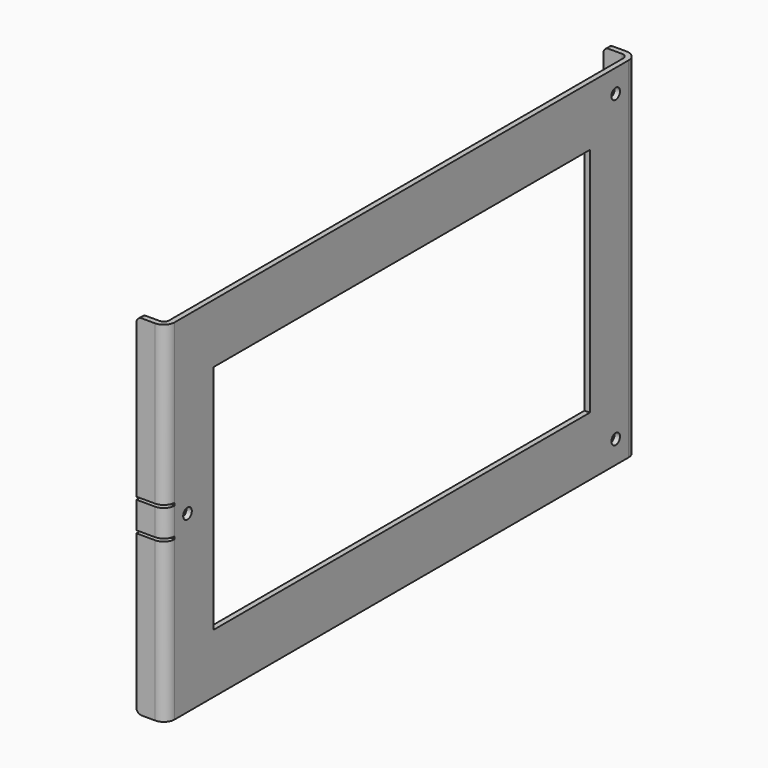
from build123d import *

# Parameters (mm, degrees)
PAD_DEPTH       = 130
FILLET_R        = 2
FILLET001_R     = 4
SKETCH001_R     = 2
SKETCH001_W     = 175
SKETCH001_H     = 86
POCKET_DEPTH    = 5
FILLET002_R     = 2
SKETCH002_W     = 15
SKETCH002_H     = 1
POCKET001_DEPTH = 4


with BuildPart() as part:
    # Sketch → Pad (new body)
    with BuildSketch(Plane.XY):
        Polygon((0, 109.5), (-11, 109.5), (-11, 107.5), (-2, 107.5), (-2, -107.5), (-11, -107.5), (-11, -109.5), (0, -109.5), align=None)
    extrude(amount=PAD_DEPTH)

    # Fillet
    fillet_edges = [part.edges().sort_by_distance(p)[0] for p in [
        (-2, -107.5, 65),
        (-2, 107.5, 65),
    ]]
    fillet(fillet_edges, radius=FILLET_R)

    # Fillet001
    fillet001_edges = [part.edges().sort_by_distance(p)[0] for p in [
        (0, 109.5, 65),
        (0, -109.5, 65),
    ]]
    fillet(fillet001_edges, radius=FILLET001_R)

    # Sketch001 → Pocket (cut)
    with BuildSketch(Plane.YZ):
        with Locations((99.5, 8.5)):
            Circle(SKETCH001_R)
        with Locations((99.5, 121.5)):
            Circle(SKETCH001_R)
        with Locations((-99.5, 65)):
            Circle(SKETCH001_R)
        with Locations((0, 65)):
            Rectangle(SKETCH001_W, SKETCH001_H)
    extrude(amount=-POCKET_DEPTH, mode=Mode.SUBTRACT)

    # Fillet002
    fillet002_edges = [part.edges().sort_by_distance(p)[0] for p in [
        (-11, -108.5, 0),
        (-11, -108.5, 130),
        (-11, 108.5, 0),
        (-11, 108.5, 130),
    ]]
    fillet(fillet002_edges, radius=FILLET002_R)

    # Sketch002 → Pocket001 (cut)
    with BuildSketch(Plane.XZ.offset(109.5)):
        with Locations((-7.5, 59.5)):
            Rectangle(SKETCH002_W, SKETCH002_H)
        with Locations((-7.5, 70.5)):
            Rectangle(SKETCH002_W, SKETCH002_H)
    extrude(amount=-POCKET001_DEPTH, mode=Mode.SUBTRACT)


solid = part.part
